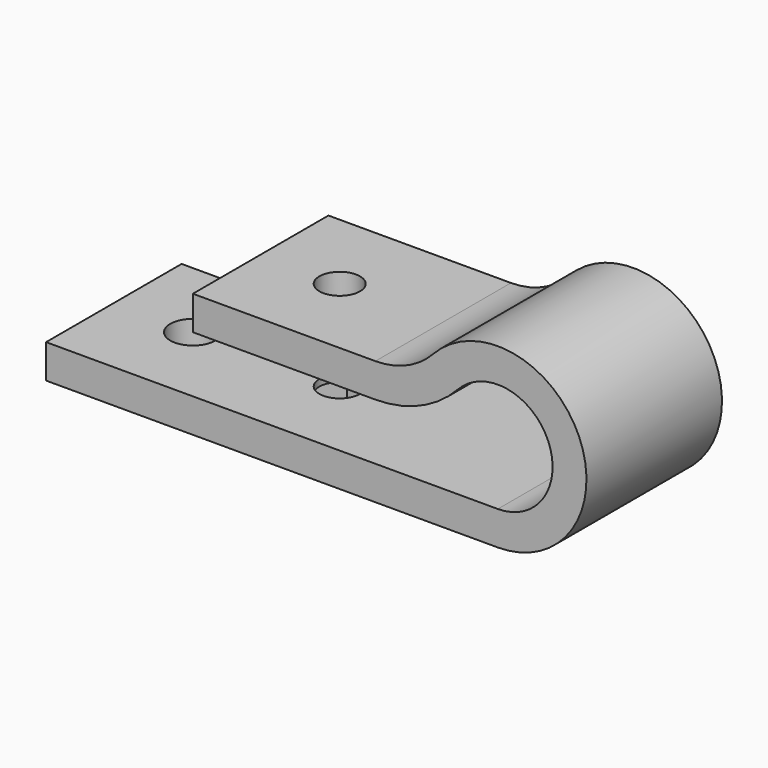
from build123d import *

# Parameters (mm, degrees)
F1_DEPTH = 15
F3_DEPTH = 2.4
F4_R     = 1.8
F5_DEPTH = 13.301
F7_D     = 4


with BuildPart() as f1:
    # F0 (on Front) → F1 (new body)
    with BuildSketch(Plane.XZ):
        with BuildLine():
            Line((40, 0), (0, 0))
            Line((0, 0), (0, -3))
            Line((0, -3), (40, -3))
            ThreePointArc((40, -3), (47.202138, 7.972773), (34.269901, 10.215488))
            ThreePointArc((34.269901, 10.215488), (31.944896, 8.577711), (29.160258, 8))
            Line((29.160258, 8), (13, 8))
            Line((13, 8), (13, 5))
            Line((13, 5), (29.160258, 5))
            ThreePointArc((29.160258, 5), (33.138313, 5.825302), (36.459748, 8.164983))
            ThreePointArc((36.459748, 8.164983), (44.449729, 6.779356), (40, 0))
        make_face()
    extrude(amount=F1_DEPTH)

    # F2 (on face) → F3 (cut)
    with BuildSketch(Plane(origin=(0, 0, -3), x_dir=(1, 0, 0), z_dir=(0, 0, -1))):
        Polygon((21.645448, 10.35), (18.354552, 10.35), (16.709103, 7.5), (18.354552, 4.65), (21.645448, 4.65), (23.290897, 7.5), align=None)
    extrude(amount=-F3_DEPTH, mode=Mode.SUBTRACT)

    # F4 (on face) → F5 (cut, through all)
    with BuildSketch(Plane(origin=(0, 0, -0.6), x_dir=(1, 0, 0), z_dir=(0, 0, -1))):
        with Locations((20, 7.5)):
            Circle(F4_R)
    extrude(amount=-F5_DEPTH, mode=Mode.SUBTRACT)

    # F7 (through all)
    with Locations(Plane.XY):
        with Locations((7, -7.5)):
            Hole(F7_D / 2)


solid = f1.part
